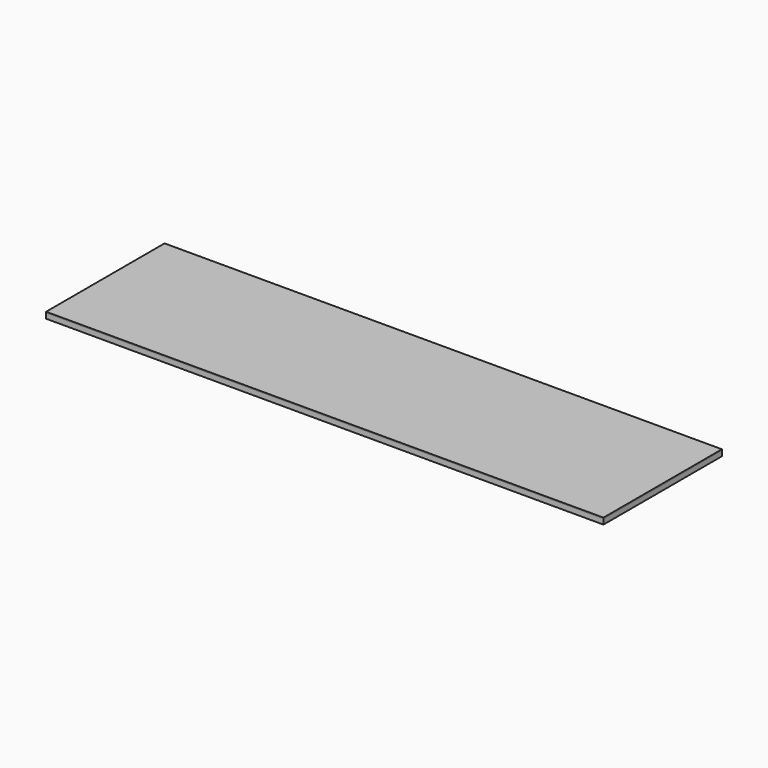
from build123d import *

# Parameters (mm, degrees)
F0_W      = 38.1
F0_H      = 88.9
F1_DEPTH  = 9753.6
F2_W      = 38.1
F2_H      = 88.9
F3_DEPTH  = 2438.4
F4_W      = 76.2
F4_H      = 88.9
F5_DEPTH  = 2438.4
F6_W      = 38.1
F6_H      = 88.9
F7_DEPTH  = 2438.4
F8_DEPTH  = 38.1
F9_W      = 76.2
F9_H      = 88.9
F10_DEPTH = 9753.6
F11_W     = 9753.6
F11_H     = 2590.8
F12_DEPTH = 19.05


with BuildPart() as f1:
    # F0 (on Right) → F1 (new body)
    with BuildSketch(Plane.YZ):
        Rectangle(F0_W, F0_H)
    extrude(amount=F1_DEPTH)

    # F2 (on face) → F3 (join)
    with BuildSketch(Plane(origin=(0, 19.05, 0), x_dir=(-1, 0, 0), z_dir=(0, 1, 0))):
        with Locations((-9366.25, 0)):
            Rectangle(F2_W, F2_H)
        with Locations((-8959.85, 0)):
            Rectangle(F2_W, F2_H)
        with Locations((-8553.45, 0)):
            Rectangle(F2_W, F2_H)
        with Locations((-8147.05, 0)):
            Rectangle(F2_W, F2_H)
        with Locations((-7740.65, 0)):
            Rectangle(F2_W, F2_H)
        with Locations((-7334.25, 0)):
            Rectangle(F2_W, F2_H)
        with Locations((-6927.85, 0)):
            Rectangle(F2_W, F2_H)
        with Locations((-6521.45, 0)):
            Rectangle(F2_W, F2_H)
        with Locations((-6115.05, 0)):
            Rectangle(F2_W, F2_H)
        with Locations((-5708.65, 0)):
            Rectangle(F2_W, F2_H)
        with Locations((-5302.25, 0)):
            Rectangle(F2_W, F2_H)
        with Locations((-4895.85, 0)):
            Rectangle(F2_W, F2_H)
        with Locations((-4489.45, 0)):
            Rectangle(F2_W, F2_H)
        with Locations((-4083.05, 0)):
            Rectangle(F2_W, F2_H)
        with Locations((-3676.65, 0)):
            Rectangle(F2_W, F2_H)
        with Locations((-3270.25, 0)):
            Rectangle(F2_W, F2_H)
        with Locations((-2863.85, 0)):
            Rectangle(F2_W, F2_H)
        with Locations((-2457.45, 0)):
            Rectangle(F2_W, F2_H)
        with Locations((-2051.05, 0)):
            Rectangle(F2_W, F2_H)
        with Locations((-1644.65, 0)):
            Rectangle(F2_W, F2_H)
        with Locations((-1238.25, 0)):
            Rectangle(F2_W, F2_H)
        with Locations((-831.85, 0)):
            Rectangle(F2_W, F2_H)
        with Locations((-425.45, 0)):
            Rectangle(F2_W, F2_H)
        with Locations((-19.05, 0)):
            Rectangle(F2_W, F2_H)
    extrude(amount=F3_DEPTH)

    # F4 (on face) → F5 (join)
    with BuildSketch(Plane(origin=(0, 19.05, 0), x_dir=(-1, 0, 0), z_dir=(0, 1, 0))):
        with Locations((-9715.5, 0)):
            Rectangle(F4_W, F4_H)
    extrude(amount=F5_DEPTH)

    # F6 (on face) → F7 (join)
    with BuildSketch(Plane(origin=(0, 19.05, 0), x_dir=(-1, 0, 0), z_dir=(0, 1, 0))):
        with Locations((-57.15, 0)):
            Rectangle(F6_W, F6_H)
    extrude(amount=F7_DEPTH)

    # F8 (add): a face of the model
    f8_faces = [f1.faces().sort_by_distance(p)[0] for p in [
        (4876.8, -19.05, 0),
    ]]
    extrude(f8_faces, amount=F8_DEPTH)

    # F9 (on face) → F10 (join)
    with BuildSketch(Plane(origin=(0, 0, 0), x_dir=(0, -1, 0), z_dir=(-1, 0, 0))):
        with Locations((-2495.55, 0)):
            Rectangle(F9_W, F9_H)
    extrude(amount=-F10_DEPTH)


with BuildPart() as f12:
    # F11 (on face) → F12 (new body)
    with BuildSketch(Plane.XY.offset(44.45)):
        with Locations((4876.8, 1238.25)):
            Rectangle(F11_W, F11_H)
    extrude(amount=F12_DEPTH)


solid = Compound([f1.part, f12.part])
